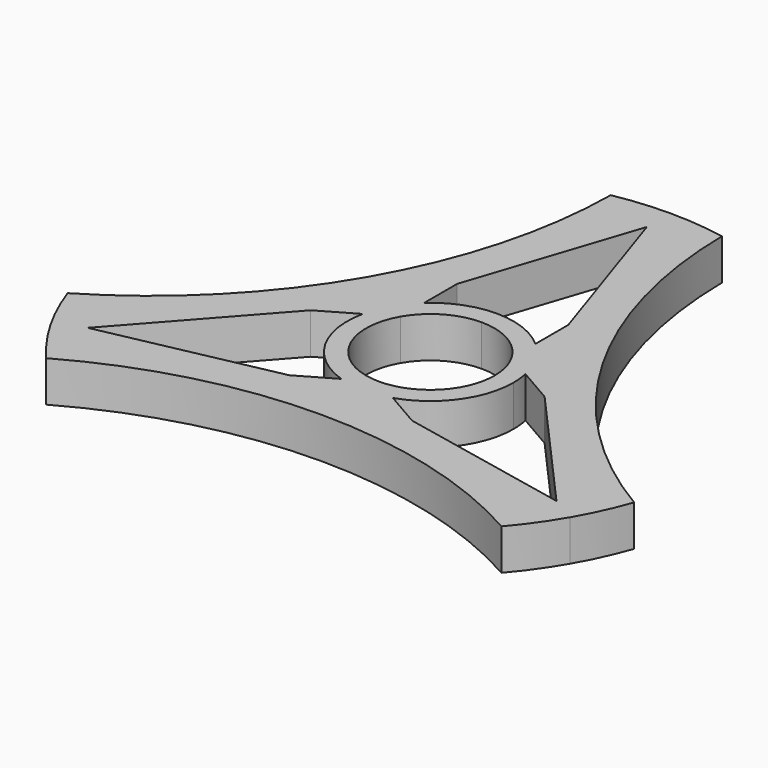
from build123d import *

# Parameters (mm, degrees)
F1_DEPTH = 7.0358


with BuildPart() as f1:
    # F0 (on Top) → F1 (new body)
    with BuildSketch(Plane.XY):
        with BuildLine():
            Line((-9.5577161638, 50.7395111935), (-9.5577161638, 17.7112849253))
            Line((-9.5577161638, 17.7112849253), (0, 46.55185))
            Line((0, 46.55185), (0, 51.63185))
            ThreePointArc((0, 51.63185), (-4.799640789, 51.408281266), (-9.5577161638, 50.7395111935))
        make_face()
        with BuildLine():
            Line((0, 46.55185), (9.5577161638, 17.7112849253))
            Line((9.5577161638, 17.7112849253), (9.5577161638, 50.7395111935))
            ThreePointArc((9.5577161638, 50.7395111935), (4.799640789, 51.408281266), (0, 51.63185))
            Line((0, 51.63185), (0, 46.55185))
        make_face()
        with BuildLine():
            Line((9.5577161638, 17.7112849253), (9.5577161638, 10.636620877))
            ThreePointArc((9.5577161638, 10.636620877), (12.3840918707, 7.1499587752), (13.9904419718, 2.9589145615))
            Line((13.9904419718, 2.9589145615), (20.1172807609, -0.5784174627))
            ThreePointArc((20.1172807609, -0.5784174627), (20.1235159205, -0.2892386033), (20.1255944502, 0))
            ThreePointArc((20.1255944502, 0), (17.282856699, 10.3122459385), (9.5577161638, 17.7112849253))
        make_face()
        with BuildLine():
            Line((10.5595645971, -17.1328674627), (4.432725808, -13.5955354385))
            ThreePointArc((4.432725808, -13.5955354385), (0, -14.2999175504), (-4.432725808, -13.5955354385))
            Line((-4.432725808, -13.5955354385), (-10.5595645971, -17.1328674627))
            ThreePointArc((-10.5595645971, -17.1328674627), (0, -20.1255944502), (10.5595645971, -17.1328674627))
        make_face()
        with BuildLine():
            Line((-20.1172807609, -0.5784174627), (-13.9904419718, 2.9589145615))
            ThreePointArc((-13.9904419718, 2.9589145615), (-12.3840918707, 7.1499587752), (-9.5577161638, 10.636620877))
            Line((-9.5577161638, 10.636620877), (-9.5577161638, 17.7112849253))
            ThreePointArc((-9.5577161638, 17.7112849253), (-17.4292760601, 10.0627972251), (-20.1172807609, -0.5784174627))
        make_face()
        with BuildLine():
            Line((-48.7205637511, -17.0925305967), (-20.1172807609, -0.5784174627))
            ThreePointArc((-20.1172807609, -0.5784174627), (-17.4292760601, 10.0627972251), (-9.5577161638, 17.7112849253))
            Line((-9.5577161638, 17.7112849253), (-9.5577161638, 50.7395111935))
            ThreePointArc((-9.5577161638, 50.7395111935), (-9.5602138637, 50.7390406423), (-9.5627115404, 50.7385699682))
            ThreePointArc((-9.5627115404, 50.7385699682), (-20.2584374888, 11.6962143375), (-48.7222463144, -17.087733861))
            ThreePointArc((-48.7222463144, -17.087733861), (-48.7214050917, -17.0901322496), (-48.7205637511, -17.0925305967))
        make_face()
        with BuildLine():
            Line((9.5577161638, 50.7395111935), (9.5577161638, 17.7112849253))
            ThreePointArc((9.5577161638, 17.7112849253), (17.282856699, 10.3122459385), (20.1255944502, 0))
            ThreePointArc((20.1255944502, 0), (20.1235159205, -0.2892386033), (20.1172807609, -0.5784174627))
            Line((20.1172807609, -0.5784174627), (45.0939427751, -14.9987))
            Line((45.0939427751, -14.9987), (48.7205637511, -17.0925305967))
            ThreePointArc((48.7205637511, -17.0925305967), (48.7214050917, -17.0901322496), (48.7222463144, -17.087733861))
            ThreePointArc((48.7222463144, -17.087733861), (20.2584374888, 11.6962143375), (9.5627115404, 50.7385699682))
            ThreePointArc((9.5627115404, 50.7385699682), (9.5602138637, 50.7390406423), (9.5577161638, 50.7395111935))
        make_face()
        with BuildLine():
            Line((35.5362266113, -31.55315), (10.5595645971, -17.1328674627))
            ThreePointArc((10.5595645971, -17.1328674627), (0, -20.1255944502), (-10.5595645971, -17.1328674627))
            Line((-10.5595645971, -17.1328674627), (-39.1628475873, -33.6469805967))
            ThreePointArc((-39.1628475873, -33.6469805967), (-39.1611912281, -33.6489083927), (-39.1595347739, -33.6508361072))
            ThreePointArc((-39.1595347739, -33.6508361072), (0, -23.392428675), (39.1595347739, -33.6508361072))
            ThreePointArc((39.1595347739, -33.6508361072), (39.1611912281, -33.6489083927), (39.1628475873, -33.6469805967))
            Line((39.1628475873, -33.6469805967), (35.5362266113, -31.55315))
        make_face()
        with BuildLine():
            Line((-39.1628475873, -33.6469805967), (-10.5595645971, -17.1328674627))
            Line((-10.5595645971, -17.1328674627), (-40.3150846932, -23.275925))
            Line((-40.3150846932, -23.275925), (-44.7144937444, -25.815925))
            ThreePointArc((-44.7144937444, -25.815925), (-42.1210571467, -29.8607514853), (-39.1628475873, -33.6469805967))
        make_face()
        with BuildLine():
            Line((-40.3150846932, -23.275925), (-20.1172807609, -0.5784174627))
            Line((-20.1172807609, -0.5784174627), (-48.7205637511, -17.0925305967))
            ThreePointArc((-48.7205637511, -17.0925305967), (-46.9206979357, -21.5475297807), (-44.7144937444, -25.815925))
            Line((-44.7144937444, -25.815925), (-40.3150846932, -23.275925))
        make_face()
        Polygon((40.3150846932, -23.275925), (10.5595645971, -17.1328674627), (35.5362266113, -31.55315), (37.7359311369, -27.74315), align=None)
        Polygon((45.0939427751, -14.9987), (20.1172807609, -0.5784174627), (40.3150846932, -23.275925), (42.5539427751, -19.3981090512), align=None)
        with BuildLine():
            Line((-4.432725808, -13.5955354385), (0, -11.0363))
            ThreePointArc((0, -11.0363), (-5.51815, -9.5577161638), (-9.5577161638, -5.51815))
            ThreePointArc((-9.5577161638, -5.51815), (-11.0363, 0), (-9.5577161638, 5.51815))
            Line((-9.5577161638, 5.51815), (-13.9904419718, 2.9589145615))
            ThreePointArc((-13.9904419718, 2.9589145615), (-12.3840918707, -7.1499587752), (-4.432725808, -13.5955354385))
        make_face()
        with BuildLine():
            Line((-13.9904419718, 2.9589145615), (-9.5577161638, 5.51815))
            Line((-9.5577161638, 5.51815), (-9.5577161638, 10.636620877))
            ThreePointArc((-9.5577161638, 10.636620877), (-12.3840918707, 7.1499587752), (-13.9904419718, 2.9589145615))
        make_face()
        with BuildLine():
            ThreePointArc((0, 11.0363), (5.51815, 9.5577161638), (9.5577161638, 5.51815))
            Line((9.5577161638, 5.51815), (9.5577161638, 10.636620877))
            ThreePointArc((9.5577161638, 10.636620877), (0, 14.2999175504), (-9.5577161638, 10.636620877))
            Line((-9.5577161638, 10.636620877), (-9.5577161638, 5.51815))
            ThreePointArc((-9.5577161638, 5.51815), (-5.51815, 9.5577161638), (0, 11.0363))
        make_face()
        with BuildLine():
            Line((9.5577161638, 10.636620877), (9.5577161638, 5.51815))
            Line((9.5577161638, 5.51815), (13.9904419718, 2.9589145615))
            ThreePointArc((13.9904419718, 2.9589145615), (12.3840918707, 7.1499587752), (9.5577161638, 10.636620877))
        make_face()
        with BuildLine():
            ThreePointArc((11.0363, 0), (10.6602471967, -2.8564046275), (9.5577161638, -5.51815))
            ThreePointArc((9.5577161638, -5.51815), (5.51815, -9.5577161638), (0, -11.0363))
            Line((0, -11.0363), (4.432725808, -13.5955354385))
            ThreePointArc((4.432725808, -13.5955354385), (11.5731425189, -8.3994055852), (14.2999175504, 0))
            ThreePointArc((14.2999175504, 0), (14.2223382156, 1.487527354), (13.9904419718, 2.9589145615))
            Line((13.9904419718, 2.9589145615), (9.5577161638, 5.51815))
            ThreePointArc((9.5577161638, 5.51815), (10.6602471967, 2.8564046275), (11.0363, 0))
        make_face()
        with BuildLine():
            Line((4.432725808, -13.5955354385), (0, -11.0363))
            Line((0, -11.0363), (-4.432725808, -13.5955354385))
            ThreePointArc((-4.432725808, -13.5955354385), (0, -14.2999175504), (4.432725808, -13.5955354385))
        make_face()
        with BuildLine():
            Line((37.7359311369, -27.74315), (35.5362266113, -31.55315))
            Line((35.5362266113, -31.55315), (39.1628475873, -33.6469805967))
            ThreePointArc((39.1628475873, -33.6469805967), (42.1210570839, -29.8607515739), (44.7144936357, -25.8159251882))
            ThreePointArc((44.7144936357, -25.8159251882), (46.9206978904, -21.5475298794), (48.7205637511, -17.0925305967))
            Line((48.7205637511, -17.0925305967), (45.0939427751, -14.9987))
            Line((45.0939427751, -14.9987), (42.5539427751, -19.3981090512))
            Line((42.5539427751, -19.3981090512), (40.3150846932, -23.275925))
            Line((40.3150846932, -23.275925), (37.7359311369, -27.74315))
        make_face()
    extrude(amount=F1_DEPTH)


solid = f1.part
